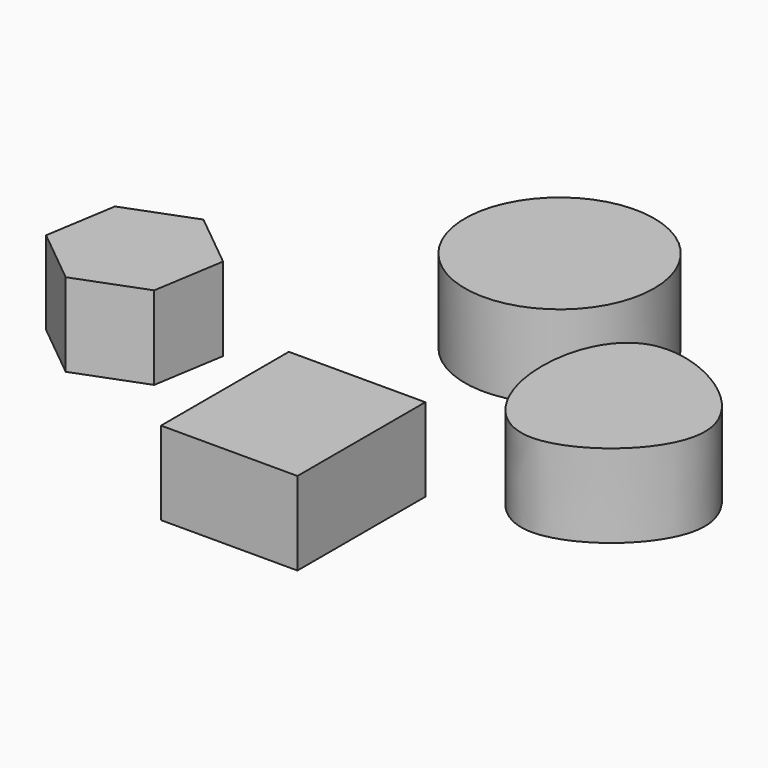
from build123d import *

# Parameters (mm, degrees)
F0_W     = 81.9210670888
F0_H     = 95.9388315678
F1_DEPTH = 50
F0_R     = 56.8480436044


with BuildPart() as f1:
    # F0 (on Top) → F1 (new body)
    with BuildSketch(Plane.XY):
        with Locations((19.0459471196, -84.7671031952)):
            Rectangle(F0_W, F0_H)
    extrude(amount=F1_DEPTH)


with BuildPart() as f1b:
    # F0 (on Top) → F1, piece 2 (new body)
    with BuildSketch(Plane.XY):
        Polygon((-137.058035258, 43.029590546), (-177.7905367577, 27.5211715709), (-184.7261027027, -15.508418975), (-150.9291671479, -43.029590546), (-110.1966656482, -27.5211715709), (-103.2610997032, 15.508418975), align=None)
    extrude(amount=F1_DEPTH)


with BuildPart() as f1c:
    # F0 (on Top) → F1, piece 3 (new body)
    with BuildSketch(Plane.XY):
        with Locations((14.784630388, 120.5130964518)):
            Circle(F0_R)
    extrude(amount=F1_DEPTH)


with BuildPart() as f1d:
    # F0 (on Top) → F1, piece 4 (new body)
    with BuildSketch(Plane.XY):
        with BuildLine():
            add(Edge.make_bspline(
                [(121.549770236, -33.6934439838), (98.7427414444, -33.6862516465), (68.4516865063, 13.3790130373), (96.238000525, 103.7690899159), (220.8345364058, 27.9702259035), (147.5645628182, -33.7016479092), (121.549770236, -33.6934439838)],
                knots=[0, 0, 0, 0, 0.2310760784, 0.465237736, 0.7364235252, 1, 1, 1, 1], degree=3))
        make_face()
    extrude(amount=F1_DEPTH)


solid = Compound([f1.part, f1b.part, f1c.part, f1d.part])
